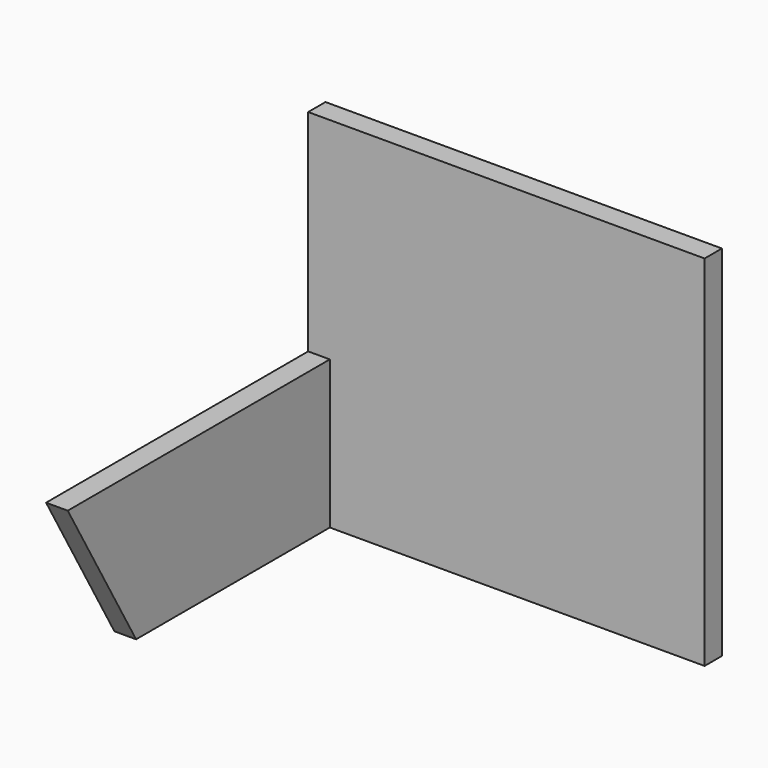
from build123d import *

# Parameters (mm, degrees)
PAD_DEPTH         = 2
SKETCH001_W       = 2
SKETCH001_H       = 33.12
PAD001_DEPTH      = 34.6
PAD001_DEPTH_BACK = 2


with BuildPart() as part:
    # Sketch → Pad (new body)
    with BuildSketch(Plane.YZ):
        Polygon((-23.355, 0), (25.355, 0), (25.355, 13.665881), (-31.245, 13.665881), align=None)
    extrude(amount=PAD_DEPTH)

    # Sketch001 (on Face6 of Pad) → Pad001 (join, two sides)
    with BuildSketch(Plane.YZ.offset(2)) as pad001_sk:
        with Locations((0, 16.56)):
            Rectangle(SKETCH001_W, SKETCH001_H)
    extrude(amount=PAD001_DEPTH)
    extrude(pad001_sk.sketch, amount=-PAD001_DEPTH_BACK)


solid = part.part
